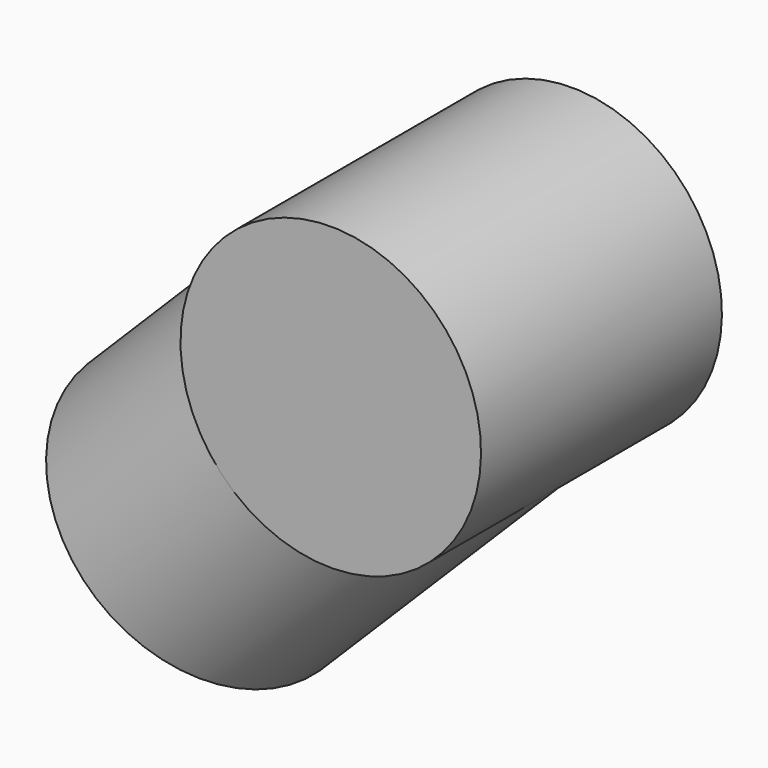
from build123d import *

# Parameters (mm, degrees)
CYLINDER044_R             = 13.9827
CYLINDER044_DEPTH         = 28.0162
CYLINDER043_R             = 13.9827
CYLINDER043_DEPTH         = 32.1945
FUSION017_PLACEMENT_ANGLE = 225


with BuildPart() as cylinder044:
    # Cylinder044 → Cylinder044 (new body)
    with BuildSketch(Plane.XZ.offset(-14.0081)):
        Circle(CYLINDER044_R)
    extrude(amount=CYLINDER044_DEPTH)


with BuildPart() as middle_inner_slip_l:
    # Cylinder043 → Cylinder043 (new body)
    with BuildSketch(Plane.XY):
        Circle(CYLINDER043_R)
    extrude(amount=CYLINDER043_DEPTH)

    # Fusion017: union Cylinder044
    add(cylinder044.part)


with BuildPart() as middle_inner_slip_l_1:
    # Fusion017 placement: moved
    add(middle_inner_slip_l.part.moved(Location((0, -15, 406))).rotate(Axis((0, -15, 406), (0, 1, 0)), FUSION017_PLACEMENT_ANGLE))


solid = middle_inner_slip_l_1.part
